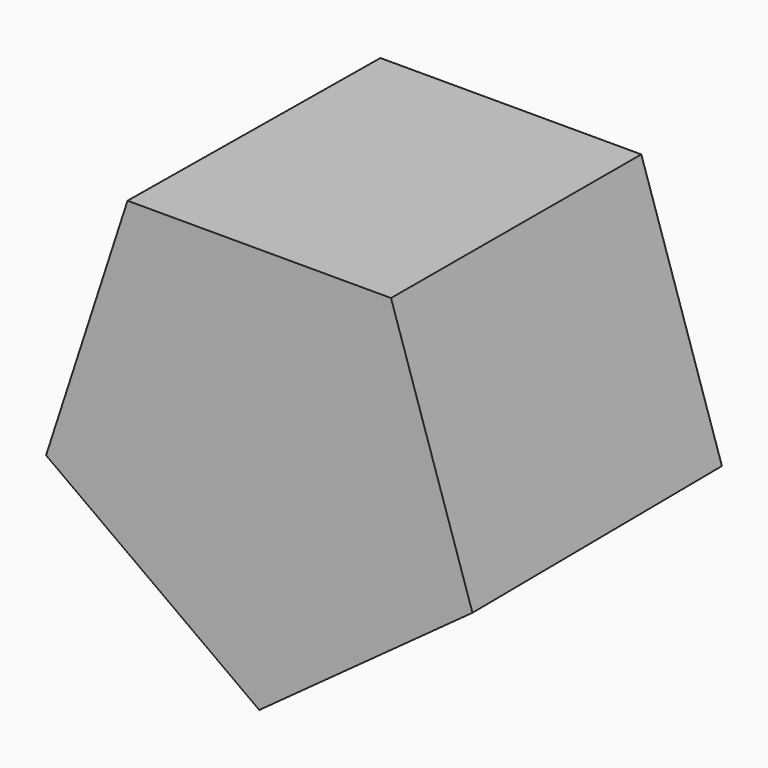
from build123d import *


with BuildPart() as f3:
    # F0 (on Front) → F3 section 0
    with BuildSketch(Plane.XZ):
        Polygon((20.739217, 28.545083), (-20.739217, 28.545083), (-33.556758, -10.903252), (0, -35.283664), (33.556758, -10.903252), align=None)
    # F2 (on offset) → F3 section 1
    with BuildSketch(Plane.XZ.offset(50)):
        Polygon((20.947651, 28.831968), (-20.947651, 28.831968), (-33.894011, -11.012832), (0, -35.638272), (33.894011, -11.012832), align=None)
    loft()


solid = f3.part
